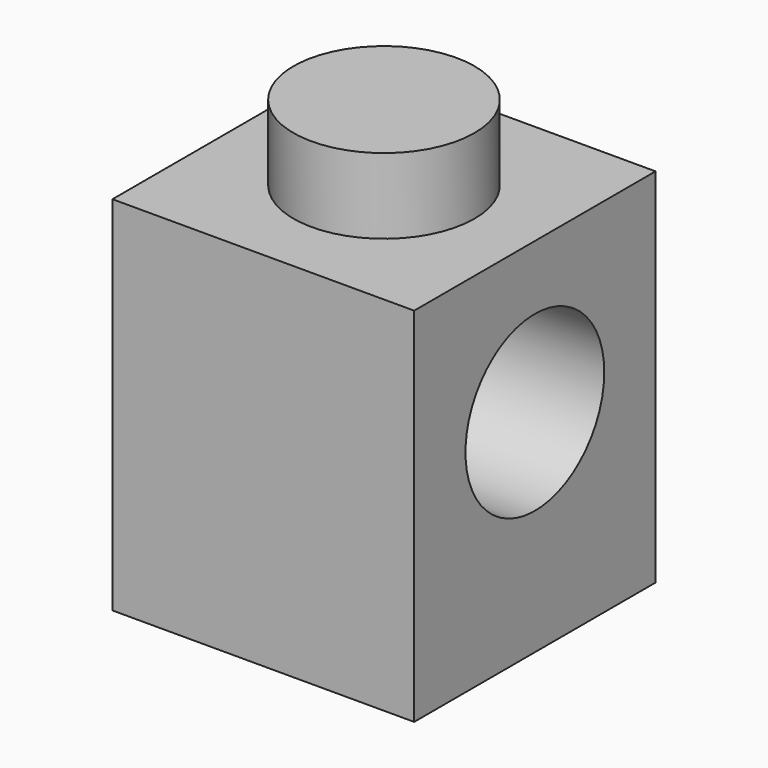
from build123d import *

# Parameters (mm, degrees)
F0_W     = 8
F0_H     = 8
F1_DEPTH = 9.6
F2_R     = 2.3
F3_DEPTH = 25
F4_R     = 2.4
F5_DEPTH = 2


with BuildPart() as f1:
    # F0 (on Top) → F1 (new body)
    with BuildSketch(Plane.XY):
        with Locations((-38.088854, 27.291242)):
            Rectangle(F0_W, F0_H)
    extrude(amount=F1_DEPTH)

    # F2 (on face) → F3 (cut)
    with BuildSketch(Plane.YZ.offset(-34.088854)):
        with Locations((27.291242, 5.6)):
            Circle(F2_R)
    extrude(amount=-F3_DEPTH, mode=Mode.SUBTRACT)

    # F4 (on face) → F5 (join)
    with BuildSketch(Plane.XY.offset(9.6)):
        with Locations((-38.088854, 27.291242)):
            Circle(F4_R)
    extrude(amount=F5_DEPTH)


solid = f1.part
